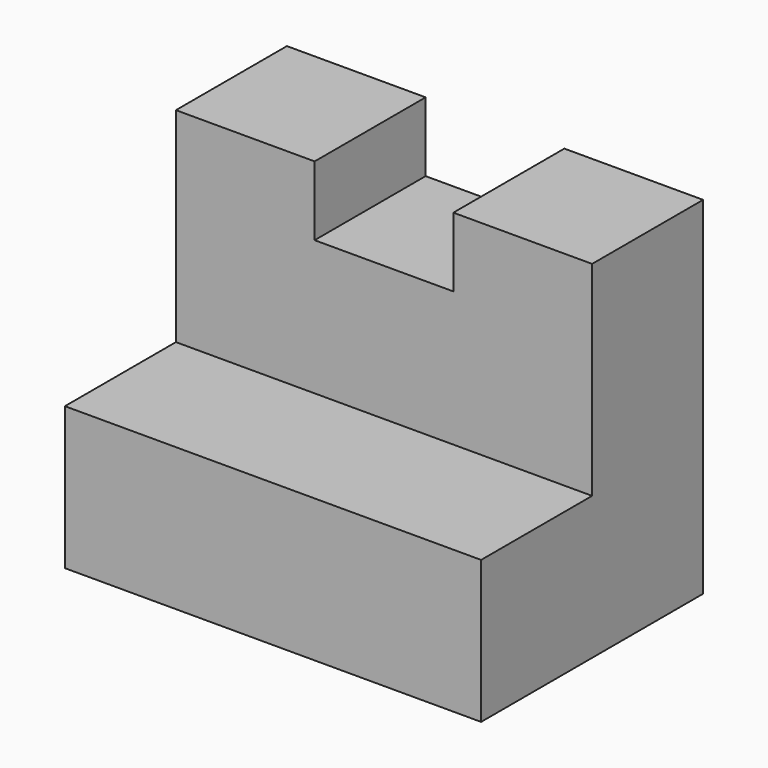
from build123d import *

# Parameters (mm, degrees)
F1_DEPTH = 25.4
F4_DEPTH = 12.7
F5_W     = 38.1
F5_H     = 13.0556984428
F6_DEPTH = 12.7


with BuildPart() as f1:
    # F0 (on Front) → F1 (new body)
    with BuildSketch(Plane.XZ):
        Polygon((-47.2752685128, 40.980277073), (-59.9752685128, 40.980277073), (-59.9752685128, 9.230277073), (-21.8752685128, 9.230277073), (-21.8752685128, 40.980277073), (-34.5752685128, 40.980277073), (-34.5752685128, 34.630277073), (-47.2752685128, 34.630277073), align=None)
    extrude(amount=F1_DEPTH)

    # F4 (cut): a face of the model
    f4_faces = [f1.faces().sort_by_distance(p)[0] for p in [
        (-40.9252685128, -25.4, 24.1981342159),
    ]]
    extrude(f4_faces, amount=-F4_DEPTH, mode=Mode.SUBTRACT)

    # F5 (on face) → F6 (join)
    with BuildSketch(Plane.XZ.offset(12.7)):
        with Locations((-40.9252685128, 15.7581262944)):
            Rectangle(F5_W, F5_H)
    extrude(amount=F6_DEPTH)


solid = f1.part
